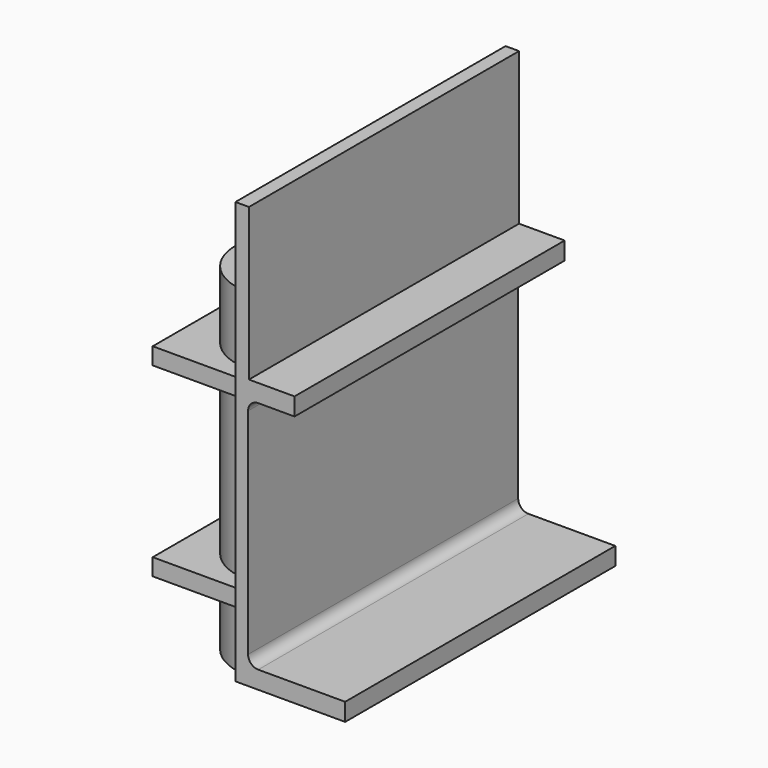
from build123d import *

# Parameters (mm, degrees)
F0_W      = 8
F0_H      = 90
F1_DEPTH  = 200
F3_W      = 95
F3_H      = 85
F3_R      = 32.5
F4_DEPTH  = 10
F6_W      = 95
F6_H      = 85
F6_R      = 32.5
F7_DEPTH  = 10
F9_R      = 32.5
F10_DEPTH = 200


with BuildPart() as f1:
    # F0 (on Front) → F1 (new body)
    with BuildSketch(Plane.XZ):
        with BuildLine():
            Line((2.5, 69.5), (2.5, 80))
            Line((2.5, 80), (-24.5, 80))
            Line((-24.5, 80), (-32.5, 80))
            Line((-32.5, 80), (-32.5, -80))
            Line((-32.5, -80), (32.5, -80))
            Line((32.5, -80), (32.5, -69.5))
            Line((32.5, -69.5), (-19, -69.5))
            ThreePointArc((-19, -69.5), (-23.2426406871, -67.7426406871), (-25, -63.5))
            Line((-25, -63.5), (-25, 63.5))
            ThreePointArc((-25, 63.5), (-23.2426406871, 67.7426406871), (-19, 69.5))
            Line((-19, 69.5), (2.5, 69.5))
        make_face()
        with Locations((-28.5, 125)):
            Rectangle(F0_W, F0_H)
    extrude(amount=-F1_DEPTH)

    # F3 (on offset) → F4 (join)
    with BuildSketch(Plane.XY.offset(-69.5)):
        with Locations((-80, 100)):
            Rectangle(F3_W, F3_H)
        with Locations((-80, 100)):
            Circle(F3_R, mode=Mode.SUBTRACT)
    extrude(amount=-F4_DEPTH)

    # F6 (on offset) → F7 (join)
    with BuildSketch(Plane.XY.offset(30.5)):
        with Locations((-80, 100)):
            Rectangle(F6_W, F6_H)
        with Locations((-80, 100)):
            Circle(F6_R, mode=Mode.SUBTRACT)
    extrude(amount=F7_DEPTH)


with BuildPart() as f10:
    # F9 (on offset) → F10 (new body)
    with BuildSketch(Plane.XY.offset(80.5)):
        with Locations((-80, 100)):
            Circle(F9_R)
    extrude(amount=-F10_DEPTH)


solid = Compound([f1.part, f10.part])
